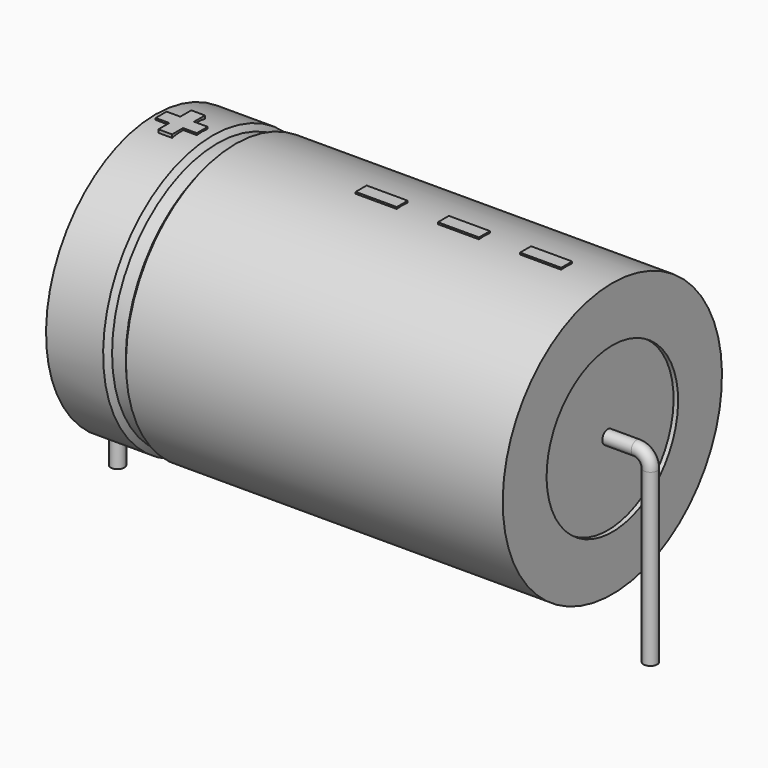
from build123d import *

# Parameters (mm, degrees)
SKETCH_R    = 0.45
SKETCH004_W = 2.7
SKETCH004_H = 0.9
PAD_DEPTH   = 9.09


with BuildPart() as sweep_body:
    # Sweep: sweep along a path in Sketch001
    with BuildLine(Plane.XZ) as sweep_path:
        Line((0, -3), (0, 8.2))
        ThreePointArc((0, 8.2), (0.263607, 8.836399), (0.90001, 9.1))
        Line((0.90001, 9.1), (34.1, 9.1))
        ThreePointArc((34.1, 9.1), (34.736396, 8.836396), (35, 8.2))
        Line((35, 8.2), (35, -3))
    # Sketch → Sweep (sweep)
    with BuildSketch(Plane.XY.offset(-2)):
        Circle(SKETCH_R)
    sweep(path=sweep_path.line)


with BuildPart() as revolution:
    # Sketch002 → Revolution (revolve)
    with BuildSketch(Plane.XZ):
        Polygon((2.5, 18.1), (2.5, 14.5), (32.5, 14.5), (32.5, 18.1), (7.75, 18.1), (7.45, 17.74), (6.55, 17.74), (6.25, 18.1), align=None)
    revolve(axis=Axis((6.97588, 0, 9.1), (1, 0, 0)))


with BuildPart() as revolution001:
    # Sketch003 → Revolution001 (revolve)
    with BuildSketch(Plane.XZ):
        Polygon((2.8, 17.74), (4.3, 17.74), (4.3, 10), (30.7, 10), (30.7, 17.74), (32.2, 17.74), (32.2, 9.1), (2.8, 9.1), align=None)
    revolve(axis=Axis((6.97588, 0, 9.1), (1, 0, 0)))


with BuildPart() as pad:
    # Sketch004 → Pad (new body)
    with BuildSketch(Plane.XY.offset(9.1)):
        with Locations((28.15, 0)):
            Rectangle(SKETCH004_W, SKETCH004_H)
        with Locations((22.75, 0)):
            Rectangle(SKETCH004_W, SKETCH004_H)
        with Locations((17.35, 0)):
            Rectangle(SKETCH004_W, SKETCH004_H)
        Polygon((3.76, 0.45), (2.86, 0.45), (2.86, -0.45), (3.76, -0.45), (3.76, -1.35), (4.66, -1.35), (4.66, -0.45), (5.56, -0.45), (5.56, 0.45), (4.66, 0.45), (4.66, 1.35), (3.76, 1.35), align=None)
    extrude(amount=PAD_DEPTH)


solid = Compound([sweep_body.part, revolution.part, revolution001.part, pad.part])
